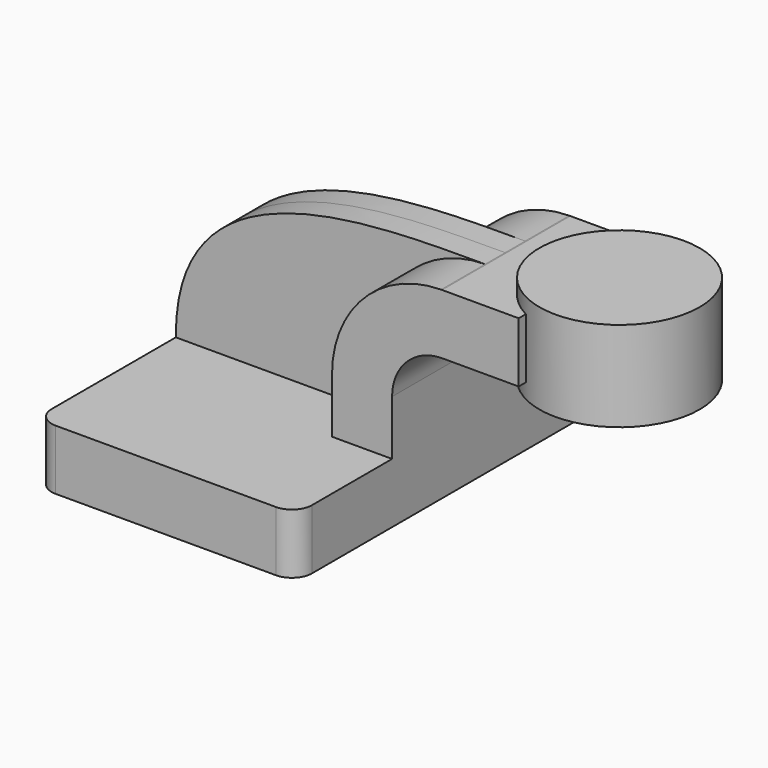
from build123d import *

# Parameters (mm, degrees)
F1_DEPTH = 63.5
F0_W     = 13.734161
F0_H     = 19.05
F2_DEPTH = 25.4
F3_DEPTH = 7.9375
F0_W_2   = 25.4
F0_H_2   = 28.575
F5_R     = 6.35


with BuildPart() as f1:
    # F0 (on Front) → F1 (new body, symmetric)
    with BuildSketch(Plane.XZ):
        Polygon((36.758158, 16.938625), (-26.741842, 16.938625), (-26.741842, -2.111375), (55.808158, -2.111375), (55.808158, 16.938625), align=None)
    extrude(amount=F1_DEPTH, both=True)

    # F0 (on Front) → F2 (join, symmetric)
    with BuildSketch(Plane.XZ):
        with BuildLine():
            Line((36.758158, 34.337625), (36.758158, 16.938625))
            Line((36.758158, 16.938625), (55.808158, 16.938625))
            Line((55.808158, 16.938625), (55.808158, 34.337625))
            ThreePointArc((55.808158, 34.337625), (60.457838, 45.562945), (71.683158, 50.212625))
            Line((71.683158, 50.212625), (82.213558, 50.212625))
            Line((82.213558, 50.212625), (82.213558, 69.262625))
            Line((82.213558, 69.262625), (71.683158, 69.262625))
            add(Edge.make_bspline(
                [(71.332357, 69.260863), (71.449649, 69.261426), (71.566584, 69.262012), (71.683158, 69.262625)],
                knots=[111.087067, 111.087067, 111.087067, 111.087067, 111.468747, 111.468747, 111.468747, 111.468747], degree=3))
            ThreePointArc((71.332357, 69.260863), (46.863737, 58.908989), (36.758158, 34.337625))
        make_face()
        with Locations((89.080638, 59.737625)):
            Rectangle(F0_W, F0_H)
    extrude(amount=F2_DEPTH, both=True)

    # F0 (on Front) → F3 (join, symmetric)
    with BuildSketch(Plane.XZ):
        with BuildLine():
            add(Edge.make_bspline(
                [(-26.741842, 16.938625), (-27.171182, 70.95094), (37.19487, 69.097097), (71.332357, 69.260863)],
                knots=[0, 0, 0, 0, 111.087067, 111.087067, 111.087067, 111.087067], degree=3))
            Line((-26.741842, 16.938625), (36.758158, 16.938625))
            Line((36.758158, 16.938625), (36.758158, 34.337625))
            ThreePointArc((36.758158, 34.337625), (46.863737, 58.908989), (71.332357, 69.260863))
        make_face()
    extrude(amount=F3_DEPTH, both=True)

    # F0 (on Front) → F4 (revolve)
    with BuildSketch(Plane.XZ):
        with Locations((120.313558, 59.801125)):
            Rectangle(F0_W_2, F0_H_2)
    revolve(axis=Axis((107.613558, 0, 59.801125), (0, 0, -1)))

    # F5
    f5_edges = [f1.edges().sort_by_distance(p)[0] for p in [
        (-26.741842, -63.5, 7.413625),
        (55.808158, -63.5, 7.413625),
        (55.808158, 63.5, 7.413625),
        (-26.741842, 63.5, 7.413625),
    ]]
    fillet(f5_edges, radius=F5_R)


solid = f1.part
